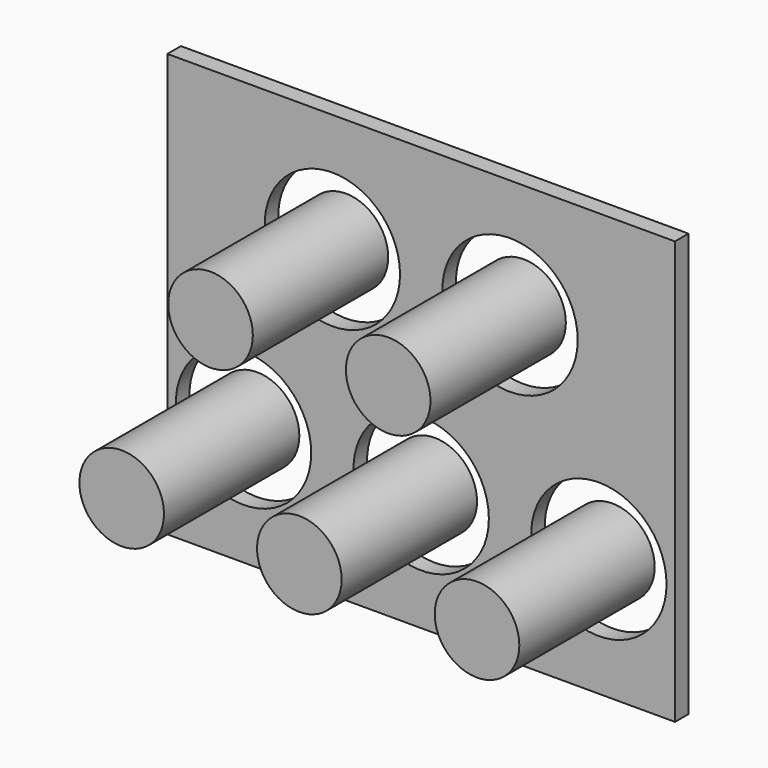
from build123d import *

# Parameters (mm, degrees)
F0_R     = 12.5
F1_DEPTH = 50
F0_W     = 150
F0_H     = 125
F0_R_2   = 20
F2_DEPTH = 5


with BuildPart() as f1:
    # F0 (on Front) → F1 (new body)
    with BuildSketch(Plane.XZ):
        with Locations((-26.25, 55)):
            Circle(F0_R)
        with Locations((26.25, 55)):
            Circle(F0_R)
        with Locations((-52.5, 0)):
            Circle(F0_R)
        Circle(F0_R)
        with Locations((52.5, 0)):
            Circle(F0_R)
    extrude(amount=F1_DEPTH)


with BuildPart() as f2:
    # F0 (on Front) → F2 (new body)
    with BuildSketch(Plane.XZ):
        with Locations((0, 27.5)):
            Rectangle(F0_W, F0_H)
        with Locations((-52.5, 0)):
            Circle(F0_R_2, mode=Mode.SUBTRACT)
        Circle(F0_R_2, mode=Mode.SUBTRACT)
        with Locations((52.5, 0)):
            Circle(F0_R_2, mode=Mode.SUBTRACT)
        with Locations((-26.25, 55)):
            Circle(F0_R_2, mode=Mode.SUBTRACT)
        with Locations((26.25, 55)):
            Circle(F0_R_2, mode=Mode.SUBTRACT)
    extrude(amount=F2_DEPTH)


solid = Compound([f1.part, f2.part])
